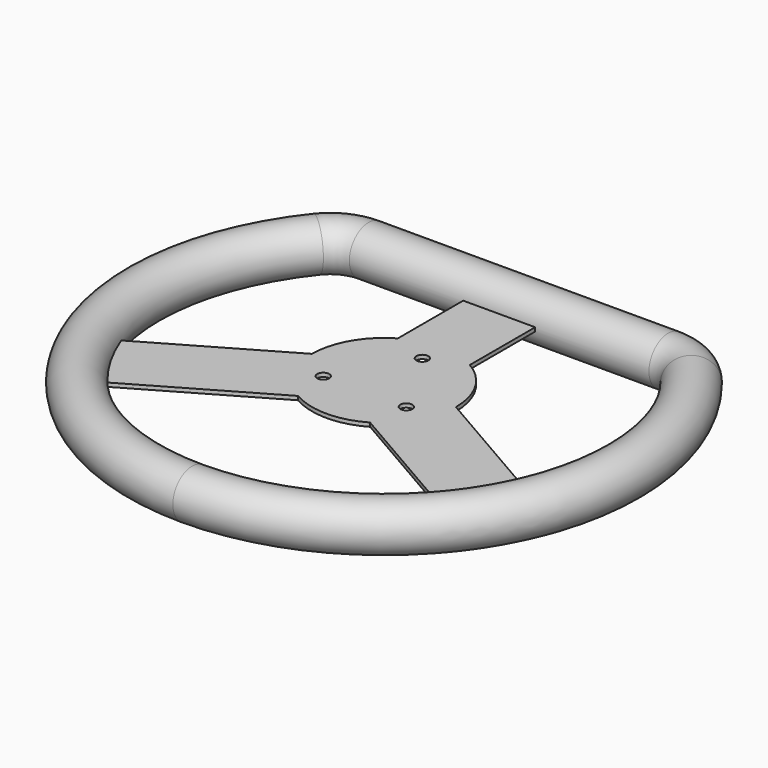
from build123d import *

# Parameters (mm, degrees)
F1_DEPTH = 0.8
F2_R     = 2.5
F3_DEPTH = 1.601
F5_R     = 10


with BuildPart() as f1:
    # F0 (on Top) → F1 (new body, symmetric)
    with BuildSketch(Plane.XY):
        with BuildLine():
            ThreePointArc((15, -25.9807621135), (25.9807621135, -15), (30, 0))
            ThreePointArc((30, 0), (25.9807621135, 15), (15, 25.9807621135))
            ThreePointArc((15, 25.9807621135), (0, 30), (-15, 25.9807621135))
            ThreePointArc((-15, 25.9807621135), (-25.9807621135, 15), (-30, 0))
            ThreePointArc((-30, 0), (-25.9807621135, -15), (-15, -25.9807621135))
            ThreePointArc((-15, -25.9807621135), (0, -30), (15, -25.9807621135))
        make_face()
        with BuildLine():
            Line((93.1227189477, -36.4439187764), (30, 0))
            ThreePointArc((30, 0), (25.9807621135, -15), (15, -25.9807621135))
            Line((15, -25.9807621135), (78.1227189477, -62.42468089))
            Line((78.1227189477, -62.42468089), (93.1227189477, -36.4439187764))
        make_face()
        with BuildLine():
            ThreePointArc((-15, 25.9807621135), (0, 30), (15, 25.9807621135))
            Line((15, 25.9807621135), (15, 70))
            Line((15, 70), (-15, 70))
            Line((-15, 70), (-15, 25.9807621135))
        make_face()
        with BuildLine():
            Line((-78.1227189477, -62.42468089), (-15, -25.9807621135))
            ThreePointArc((-15, -25.9807621135), (-25.9807621135, -15), (-30, 0))
            Line((-30, 0), (-93.1227189477, -36.4439187764))
            Line((-93.1227189477, -36.4439187764), (-78.1227189477, -62.42468089))
        make_face()
    extrude(amount=F1_DEPTH, both=True)

    # F2 (on face) → F3 (cut, through all)
    with BuildSketch(Plane.XY.offset(0.8)):
        with Locations((0, 20)):
            Circle(F2_R)
        with Locations((-17.3205080757, -10)):
            Circle(F2_R)
        with Locations((17.3205080757, -10)):
            Circle(F2_R)
    extrude(amount=-F3_DEPTH, mode=Mode.SUBTRACT)



with BuildPart() as f6:
    # F6: sweep along a path in F4
    with BuildLine(Plane.XY) as f6_path:
        Line((0, 70), (62.449979984, 70))
        ThreePointArc((62.449979984, 70), (71.1102340218, 68.0277563773), (78.06247498, 62.5))
        ThreePointArc((78.06247498, 62.5), (90.1387818866, -43.3012701892), (0, -100))
    # F5 (on Right) → F6 (sweep)
    with BuildSketch(Plane.YZ):
        with Locations((70, 0)):
            Circle(F5_R)
    sweep(path=f6_path.line)


with BuildPart() as f1_1:
    add(f1.part)

    add(f6.part)  # F7 merges F6
    # F7: F6 across plane
    add(f6.part.mirror(Plane.YZ))


solid = f1_1.part
